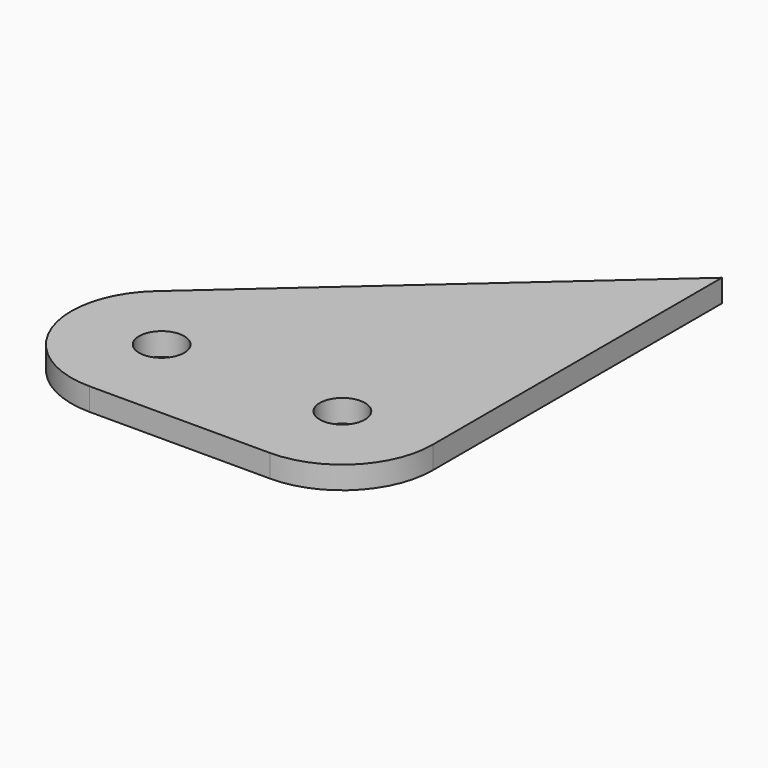
from build123d import *

# Parameters (mm, degrees)
F1_DEPTH = 3.175
F3_D     = 6.35


with BuildPart() as f1:
    # F0 (on Top) → F1 (new body)
    with BuildSketch(Plane.XY):
        with BuildLine():
            ThreePointArc((-9.552005, 9.498045), (-12.993834, -4.509148), (-1.121279, -12.7))
            Line((-1.121279, -12.7), (24.278721, -12.7))
            ThreePointArc((24.278721, -12.7), (33.258978, -8.980256), (36.978721, 0))
            Line((36.978721, 0), (36.978721, 50.8))
            Line((36.978721, 50.8), (-9.552005, 9.498045))
        make_face()
    extrude(amount=F1_DEPTH)

    # F3 (through all)
    with Locations(Plane.XY.offset(3.175)):
        with Locations((24.278721, 0), (-1.121279, 0)):
            Hole(F3_D / 2)


solid = f1.part
